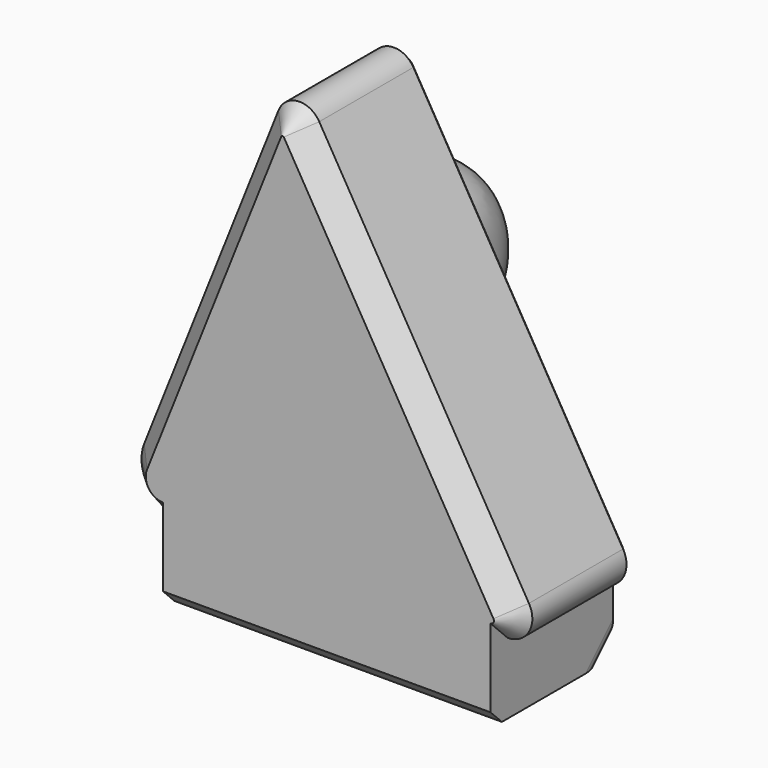
from build123d import *

# Parameters (mm, degrees)
F1_DEPTH = 54.7290220857
F2_R     = 8.8344722142
F3_R     = 13.7805393542
F4_R     = 8.1109192383
F7_W     = 116.9503690259
F7_H     = 54.7290220857
F8_DEPTH = 25.4
F9_SIZE  = 7.62
F10_SIZE = 5.08
F11_SIZE = 5.08
F12_R    = 5.08
F13_SIZE = 5.08


with BuildPart() as f1:
    # F0 (on Front) → F1 (new body)
    with BuildSketch(Plane.XZ):
        Polygon((77.1414041519, -75.8835673332), (-13.9831751585, 78.745059669), (-75.5946412683, -75.8835673332), align=None)
    extrude(amount=F1_DEPTH)

    # F2
    f2_edges = [f1.edges().sort_by_distance(p)[0] for p in [
        (77.141404, -27.364511, -75.883567),
    ]]
    fillet(f2_edges, radius=F2_R)

    # F3
    f3_edges = [f1.edges().sort_by_distance(p)[0] for p in [
        (-75.594641, -27.364511, -75.883567),
    ]]
    fillet(f3_edges, radius=F3_R)

    # F4
    f4_edges = [f1.edges().sort_by_distance(p)[0] for p in [
        (-13.983175, -27.364511, 78.74506),
    ]]
    fillet(f4_edges, radius=F4_R)

    # F5 (on Top) → F6 (revolve)
    with BuildSketch(Plane.XY):
        with BuildLine():
            Line((-13.9831751585, 0), (-30.338563025, 0))
            ThreePointArc((-30.338563025, 0), (-10.7888579369, -30.8070029471), (8.7608471513, 0))
            Line((8.7608471513, 0), (-13.9831751585, 0))
        make_face()
    revolve(axis=Axis((31.5791144967, 0, 0), (1, 0, 0)))

    # F7 (on face) → F8 (join)
    with BuildSketch(Plane(origin=(0, 0, -75.8835673332), x_dir=(1, 0, 0), z_dir=(0, 0, -1))):
        with Locations((3.2055367817, 27.3645110428)):
            Rectangle(F7_W, F7_H)
    extrude(amount=F8_DEPTH)

    # F9
    f9_edges = [f1.edges().sort_by_distance(p)[0] for p in [
        (31.853931, -54.729022, 0.964412),
    ]]
    chamfer(f9_edges, length=F9_SIZE)

    # F10
    f10_edges = [f1.edges().sort_by_distance(p)[0] for p in [
        (31.853931, 0, 0.964412),
    ]]
    chamfer(f10_edges, length=F10_SIZE)

    # F11
    f11_edges = [f1.edges().sort_by_distance(p)[0] for p in [
        (3.205537, 0, -101.283567),
    ]]
    chamfer(f11_edges, length=F11_SIZE)

    # F12
    f12_edges = [f1.edges().sort_by_distance(p)[0] for p in [
        (-55.269648, -2.54, -98.743567),
        (3.205537, 0, -96.203567),
        (3.205537, -5.08, -101.283567),
        (61.680721, -2.54, -98.743567),
    ]]
    fillet(f12_edges, radius=F12_R)

    # F13
    f13_edges = [f1.edges().sort_by_distance(p)[0] for p in [
        (3.205537, -54.729022, -101.283567),
    ]]
    chamfer(f13_edges, length=F13_SIZE)


solid = f1.part
